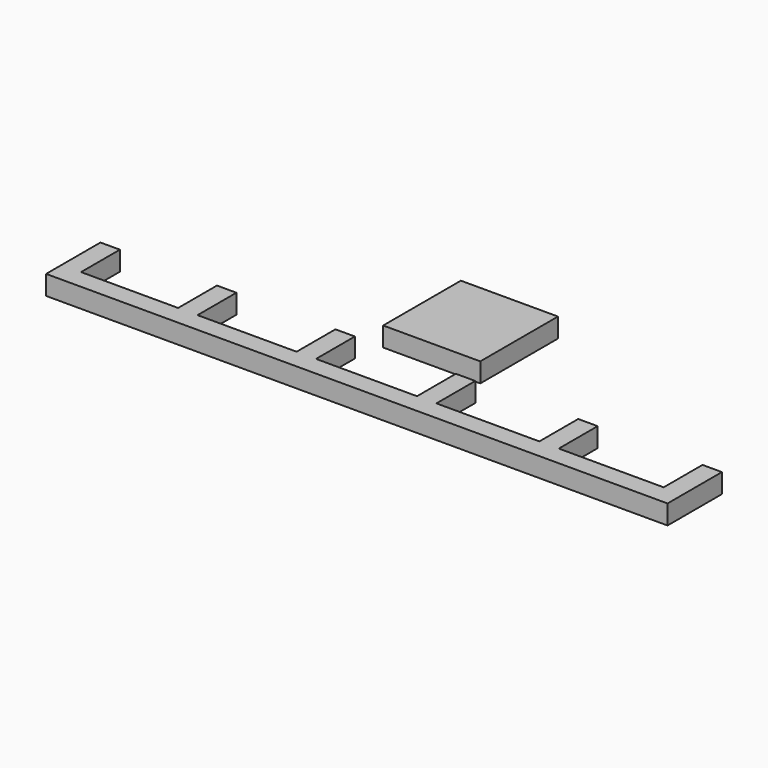
from build123d import *

# Parameters (mm, degrees)
F0_W     = 12.7
F0_H     = 12.7
F1_DEPTH = 2.54


with BuildPart() as f1:
    # F0 (on Top) → F1 (new body)
    with BuildSketch(Plane.XY):
        Rectangle(F0_W, F0_H)
        Polygon((-25.123568, -16.401417), (-37.823568, -16.401417), (-37.823568, -10.051417), (-40.363568, -10.051417), (-40.363568, -18.941417), (40.916432, -18.941417), (40.916432, -10.051417), (38.376432, -10.051417), (38.376432, -16.401417), (24.660432, -16.401417), (24.660432, -10.051417), (22.120432, -10.051417), (22.120432, -16.401417), (8.658432, -16.401417), (8.658432, -10.051417), (6.118432, -10.051417), (6.118432, -16.401417), (-7.089568, -16.401417), (-7.089568, -10.051417), (-9.629568, -10.051417), (-9.629568, -16.401417), (-22.583568, -16.401417), (-22.583568, -10.051417), (-25.123568, -10.051417), align=None)
    extrude(amount=F1_DEPTH)


solid = f1.part
